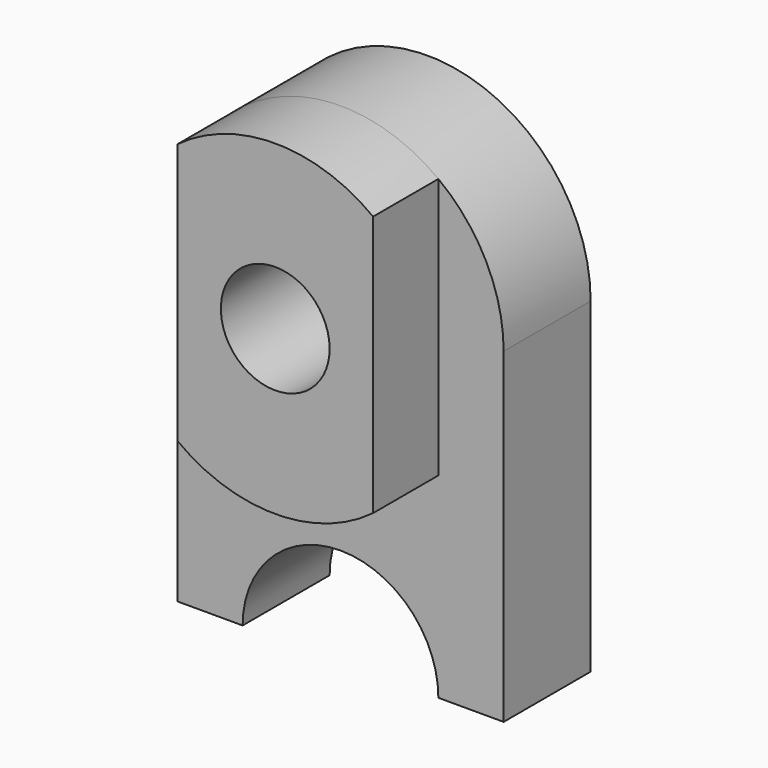
from build123d import *

# Parameters (mm, degrees)
F1_DEPTH = 200
F3_DEPTH = 150
F4_R     = 100
F5_DEPTH = 350.001


with BuildPart() as f1:
    # F0 (on Front) → F1 (new body)
    with BuildSketch(Plane.XZ):
        with BuildLine():
            Line((-300, 300), (-300, -300))
            Line((-300, -300), (-180, -300))
            ThreePointArc((-180, -300), (0, -120), (180, -300))
            Line((180, -300), (300, -300))
            Line((300, -300), (300, 300))
            ThreePointArc((300, 300), (0, 600), (-300, 300))
        make_face()
    extrude(amount=F1_DEPTH)

    # F2 (on face) → F3 (join)
    with BuildSketch(Plane.XZ.offset(200)):
        with BuildLine():
            Line((-179.99268, 540.00549), (-179.934111, 59.950597))
            ThreePointArc((-179.934111, 59.950597), (0.082353, 1.1e-05), (180.065876, 60.049421))
            Line((180.065876, 60.049421), (180.00732, 539.99451))
            ThreePointArc((180.00732, 539.99451), (0.00915, 600), (-179.99268, 540.00549))
        make_face()
    extrude(amount=F3_DEPTH)

    # F4 (on face) → F5 (cut, through all)
    with BuildSketch(Plane.XZ.offset(350)):
        with Locations((0, 300)):
            Circle(F4_R)
    extrude(amount=-F5_DEPTH, mode=Mode.SUBTRACT)


solid = f1.part
